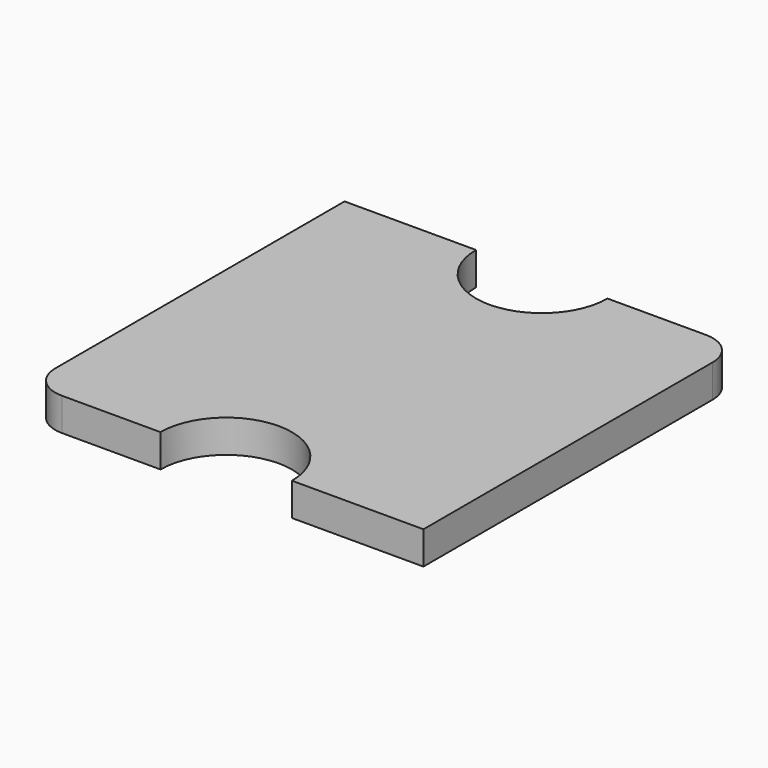
from build123d import *

# Parameters (mm, degrees)
F1_DEPTH = 10
F2_R     = 10


with BuildPart() as f1:
    # F0 (on Top) → F1 (new body)
    with BuildSketch(Plane.XY):
        with BuildLine():
            ThreePointArc((0, 10), (2.928932, 2.928932), (10, 0))
            Line((10, 0), (40, 0))
            ThreePointArc((40, 0), (60, 20), (80, 0))
            Line((80, 0), (120, 0))
            Line((120, 0), (120, 120))
            Line((120, 120), (80, 120))
            ThreePointArc((80, 120), (60, 100), (40, 120))
            Line((40, 120), (0, 120))
            Line((0, 120), (0, 10))
        make_face()
    extrude(amount=F1_DEPTH)

    # F2
    f2_edges = [f1.edges().sort_by_distance(p)[0] for p in [
        (120, 120, 5),
    ]]
    fillet(f2_edges, radius=F2_R)


solid = f1.part
